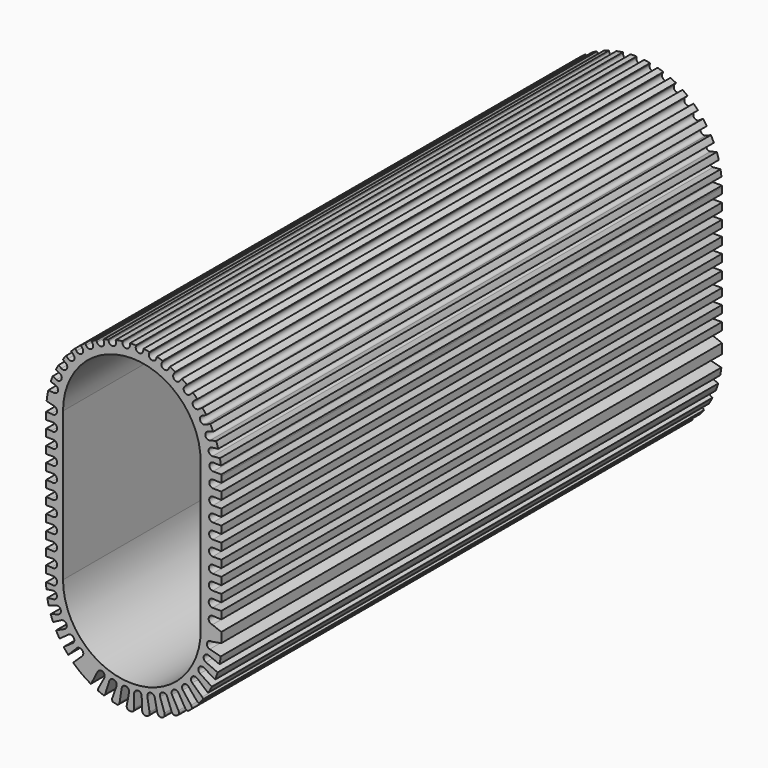
from build123d import *

# Parameters (mm, degrees)
F1_DEPTH = 63.5


with BuildPart() as f1:
    # F0 (on Front) → F1 (new body, symmetric)
    with BuildSketch(Plane.XZ):
        with BuildLine():
            Line((-0.255122, 44.271015), (-0.255122, 43.875967))
            ThreePointArc((-0.255122, 43.875967), (-1.017122, 43.113967), (-1.779122, 43.875967))
            Line((-1.779122, 43.875967), (-1.806015, 44.136175))
            ThreePointArc((-1.806015, 44.136175), (-2.475936, 44.035221), (-3.141524, 43.908818))
            Line((-3.141524, 43.908818), (-3.073498, 43.523019))
            ThreePointArc((-3.073498, 43.523019), (-3.691601, 42.640276), (-4.574345, 43.258379))
            Line((-4.574345, 43.258379), (-4.614646, 43.533464))
            ThreePointArc((-4.614646, 43.533464), (-5.132096, 43.369123), (-5.644287, 43.189059))
            Line((-5.644287, 43.189059), (-5.509448, 42.796288))
            ThreePointArc((-5.509448, 42.796288), (-5.98274, 41.828154), (-6.950874, 42.301446))
            Line((-6.950874, 42.301446), (-7.044836, 42.603456))
            ThreePointArc((-7.044836, 42.603456), (-7.535961, 42.363725), (-8.019486, 42.109014))
            Line((-8.019486, 42.109014), (-7.802731, 41.699543))
            ThreePointArc((-7.802731, 41.699543), (-8.119692, 40.66958), (-9.149655, 40.986541))
            Line((-9.149655, 40.986541), (-9.317015, 41.326221))
            ThreePointArc((-9.317015, 41.326221), (-9.772593, 41.013874), (-10.218248, 40.687526))
            Line((-10.218248, 40.687526), (-9.897534, 40.259476))
            ThreePointArc((-9.897534, 40.259476), (-10.050452, 39.19275), (-11.117178, 39.345667))
            Line((-11.117178, 39.345667), (-11.384391, 39.724791))
            ThreePointArc((-11.384391, 39.724791), (-11.794998, 39.343467), (-12.193385, 38.949393))
            Line((-12.193385, 38.949393), (-11.742878, 38.511134))
            ThreePointArc((-11.742878, 38.511134), (-11.72803, 37.433605), (-12.805558, 37.418757))
            Line((-12.805558, 37.418757), (-13.202383, 37.827902))
            ThreePointArc((-13.202383, 37.827902), (-13.558403, 37.382356), (-13.899951, 36.925621))
            Line((-13.899951, 36.925621), (-13.293852, 36.497065))
            ThreePointArc((-13.293852, 36.497065), (-13.1116, 35.434957), (-14.173707, 35.252705))
            Line((-14.173707, 35.252705), (-14.729177, 35.670195))
            ThreePointArc((-14.729177, 35.670195), (-15.02091, 35.166577), (-15.296003, 34.653681))
            Line((-15.296003, 34.653681), (-14.512711, 34.266285))
            ThreePointArc((-14.512711, 34.266285), (-14.16749, 33.245447), (-15.188328, 32.900226))
            Line((-15.188328, 32.900226), (-15.926482, 33.292397))
            ThreePointArc((-15.926482, 33.292397), (-16.144372, 32.738524), (-16.343601, 32.177669))
            Line((-16.343601, 32.177669), (-15.369792, 31.873085))
            ThreePointArc((-15.369792, 31.873085), (-14.870004, 30.91836), (-15.824729, 30.418572))
            Line((-15.824729, 30.418572), (-16.817992, 30.499692))
            ThreePointArc((-16.817992, 30.499692), (-17.021492, 29.481508), (-17.165209, 28.453181))
            Line((-17.165209, 28.453181), (-15.924497, 28.104929))
            ThreePointArc((-15.924497, 28.104929), (-15.050969, 27.143538), (-16.175584, 26.49349))
            Line((-16.175584, 26.49349), (-17.271998, 26.515287))
            ThreePointArc((-17.271998, 26.515287), (-17.272, 26.511343), (-17.272, 26.507399))
            Line((-17.272, 26.507399), (-17.272, 25.044551))
            Line((-17.272, 25.044551), (-15.924497, 25.056929))
            ThreePointArc((-15.924497, 25.056929), (-15.050969, 24.095538), (-16.175584, 23.44549))
            Line((-16.175584, 23.44549), (-17.272, 23.467287))
            Line((-17.272, 23.467287), (-17.272, 21.996551))
            Line((-17.272, 21.996551), (-15.924497, 22.008929))
            ThreePointArc((-15.924497, 22.008929), (-15.050969, 21.047538), (-16.175584, 20.39749))
            Line((-16.175584, 20.39749), (-17.272, 20.419287))
            Line((-17.272, 20.419287), (-17.272, 18.948551))
            Line((-17.272, 18.948551), (-15.924497, 18.960929))
            ThreePointArc((-15.924497, 18.960929), (-15.050969, 17.999538), (-16.175584, 17.34949))
            Line((-16.175584, 17.34949), (-17.272, 17.371287))
            Line((-17.272, 17.371287), (-17.272, 15.900551))
            Line((-17.272, 15.900551), (-15.924497, 15.912929))
            ThreePointArc((-15.924497, 15.912929), (-15.050969, 14.951538), (-16.175584, 14.30149))
            Line((-16.175584, 14.30149), (-17.272, 14.323287))
            Line((-17.272, 14.323287), (-17.272, 12.852551))
            Line((-17.272, 12.852551), (-15.924497, 12.864929))
            ThreePointArc((-15.924497, 12.864929), (-15.050969, 11.903538), (-16.175584, 11.25349))
            Line((-16.175584, 11.25349), (-17.272, 11.275287))
            Line((-17.272, 11.275287), (-17.272, 9.804551))
            Line((-17.272, 9.804551), (-15.924497, 9.816929))
            ThreePointArc((-15.924497, 9.816929), (-15.050969, 8.855538), (-16.175584, 8.20549))
            Line((-16.175584, 8.20549), (-17.272, 8.227287))
            Line((-17.272, 8.227287), (-17.272, 6.756551))
            Line((-17.272, 6.756551), (-15.924497, 6.768929))
            ThreePointArc((-15.924497, 6.768929), (-15.050969, 5.807538), (-16.175584, 5.15749))
            Line((-16.175584, 5.15749), (-17.272, 5.179287))
            Line((-17.272, 5.179287), (-17.272, 3.708551))
            Line((-17.272, 3.708551), (-15.924497, 3.720929))
            ThreePointArc((-15.924497, 3.720929), (-15.050969, 2.759538), (-16.175584, 2.10949))
            Line((-16.175584, 2.10949), (-17.272, 2.131287))
            Line((-17.272, 2.131287), (-17.272, 0.660551))
            Line((-17.272, 0.660551), (-15.924497, 0.672929))
            ThreePointArc((-15.924497, 0.672929), (-15.050969, -0.288462), (-16.175584, -0.93851))
            Line((-16.175584, -0.93851), (-17.272, -0.916713))
            Line((-17.272, -0.916713), (-17.272, -2.387449))
            Line((-17.272, -2.387449), (-15.924497, -2.375071))
            ThreePointArc((-15.924497, -2.375071), (-15.050969, -3.336462), (-16.175584, -3.98651))
            Line((-16.175584, -3.98651), (-17.269431, -3.964764))
            ThreePointArc((-17.269431, -3.964764), (-17.248031, -4.585448), (-17.204966, -5.205007))
            Line((-17.204966, -5.205007), (-15.961419, -4.99855))
            ThreePointArc((-15.961419, -4.99855), (-15.084391, -5.624736), (-15.710577, -6.501764))
            Line((-15.710577, -6.501764), (-17.013993, -6.680505))
            ThreePointArc((-17.013993, -6.680505), (-16.893468, -7.311824), (-16.750203, -7.938374))
            Line((-16.750203, -7.938374), (-15.257094, -7.441073))
            ThreePointArc((-15.257094, -7.441073), (-14.293349, -7.923238), (-14.775514, -8.886983))
            Line((-14.775514, -8.886983), (-16.33555, -9.356673))
            ThreePointArc((-16.33555, -9.356673), (-16.108441, -9.98885), (-15.857615, -10.611997))
            Line((-15.857615, -10.611997), (-14.181461, -9.744333))
            ThreePointArc((-14.181461, -9.744333), (-13.154454, -10.070743), (-13.480863, -11.09775))
            Line((-13.480863, -11.09775), (-15.24691, -11.903359))
            ThreePointArc((-15.24691, -11.903359), (-14.900228, -12.534675), (-14.528263, -13.151432))
            Line((-14.528263, -13.151432), (-12.760698, -11.852277))
            ThreePointArc((-12.760698, -11.852277), (-11.695422, -12.014986), (-11.858131, -13.080263))
            Line((-11.858131, -13.080263), (-13.699283, -14.352786))
            ThreePointArc((-13.699283, -14.352786), (-13.250124, -14.924967), (-12.777938, -15.478296))
            Line((-12.777938, -15.478296), (-11.02938, -13.713602))
            ThreePointArc((-11.02938, -13.713602), (-9.951761, -13.708653), (-9.946811, -14.786272))
            Line((-9.946811, -14.786272), (-11.770089, -16.522429))
            ThreePointArc((-11.770089, -16.522429), (-11.214837, -17.030536), (-10.638578, -17.514688))
            ThreePointArc((-10.638578, -17.514688), (-10.055188, -17.964542), (-9.453663, -18.389843))
            ThreePointArc((-9.453663, -18.389843), (-8.831134, -18.792271), (-8.192372, -19.168401))
            ThreePointArc((-8.192372, -19.168401), (-8.113377, -19.076102), (-8.050055, -18.972422))
            Line((-8.050055, -18.972422), (-6.810154, -16.522311))
            ThreePointArc((-6.810154, -16.522311), (-5.786188, -16.186482), (-5.450359, -17.210448))
            Line((-5.450359, -17.210448), (-6.718956, -19.546196))
            ThreePointArc((-6.718956, -19.546196), (-6.753341, -19.71893), (-6.747151, -19.894945))
            ThreePointArc((-6.747151, -19.894945), (-6.143537, -20.151482), (-5.530873, -20.385583))
            ThreePointArc((-5.530873, -20.385583), (-5.371472, -20.220027), (-5.268683, -20.014475))
            Line((-5.268683, -20.014475), (-4.424928, -17.401339))
            ThreePointArc((-4.424928, -17.401339), (-3.465652, -16.910342), (-2.974655, -17.869618))
            Line((-2.974655, -17.869618), (-3.864543, -20.374245))
            ThreePointArc((-3.864543, -20.374245), (-3.85441, -20.663628), (-3.737046, -20.928337))
            ThreePointArc((-3.737046, -20.928337), (-3.230598, -21.045032), (-2.720955, -21.146876))
            ThreePointArc((-2.720955, -21.146876), (-2.480414, -20.919344), (-2.359088, -20.611268))
            Line((-2.359088, -20.611268), (-1.932014, -17.898704))
            ThreePointArc((-1.932014, -17.898704), (-1.060774, -17.264488), (-0.426558, -18.135727))
            Line((-0.426558, -18.135727), (-0.91608, -20.748279))
            ThreePointArc((-0.91608, -20.748279), (-0.811889, -21.132898), (-0.527807, -21.412336))
            ThreePointArc((-0.527807, -21.412336), (-0.180466, -21.429199), (0.167139, -21.439265))
            ThreePointArc((0.167139, -21.439265), (0.488342, -21.158081), (0.60792, -20.748279))
            Line((0.60792, -20.748279), (0.60792, -18.0023))
            ThreePointArc((0.60792, -18.0023), (1.36992, -17.2403), (2.13192, -18.0023))
            Line((2.13192, -18.0023), (2.228574, -20.639522))
            ThreePointArc((2.228574, -20.639522), (2.473282, -21.083045), (2.941996, -21.275144))
            ThreePointArc((2.941996, -21.275144), (3.088762, -21.254238), (3.235349, -21.232108))
            ThreePointArc((3.235349, -21.232108), (3.636871, -20.900628), (3.731789, -20.38868))
            Line((3.731789, -20.38868), (3.279816, -17.680153))
            ThreePointArc((3.279816, -17.680153), (3.906002, -16.803125), (4.78303, -17.429311))
            Line((4.78303, -17.429311), (5.312439, -20.014656))
            ThreePointArc((5.312439, -20.014656), (5.648283, -20.424898), (6.170443, -20.516765))
            ThreePointArc((6.170443, -20.516765), (6.277794, -20.480318), (6.38491, -20.443186))
            ThreePointArc((6.38491, -20.443186), (6.740755, -20.049974), (6.753864, -19.519814))
            Line((6.753864, -19.519814), (5.862246, -16.92262))
            ThreePointArc((5.862246, -16.92262), (6.335538, -15.954487), (7.303672, -16.427778))
            Line((7.303672, -16.427778), (8.251394, -18.890725))
            ThreePointArc((8.251394, -18.890725), (8.56324, -19.200553), (8.994336, -19.286569))
            ThreePointArc((8.994336, -19.286569), (9.265693, -19.136098), (9.534383, -18.980915))
            ThreePointArc((9.534383, -18.980915), (9.681677, -18.581487), (9.591712, -18.165381))
            Line((9.591712, -18.165381), (8.28477, -15.750365))
            ThreePointArc((8.28477, -15.750365), (8.592258, -14.717534), (9.625088, -15.025021))
            Line((9.625088, -15.025021), (10.965272, -17.298387))
            ThreePointArc((10.965272, -17.298387), (11.227819, -17.512905), (11.557432, -17.592302))
            ThreePointArc((11.557432, -17.592302), (11.942516, -17.277975), (12.318662, -16.953006))
            ThreePointArc((12.318662, -16.953006), (12.304934, -16.641935), (12.167922, -16.362327))
            Line((12.167922, -16.362327), (10.481308, -14.195364))
            ThreePointArc((10.481308, -14.195364), (10.614603, -13.126008), (11.683958, -13.259303))
            Line((11.683958, -13.259303), (13.380047, -15.281076))
            ThreePointArc((13.380047, -15.281076), (13.573047, -15.410569), (13.796104, -15.47586))
            ThreePointArc((13.796104, -15.47586), (14.216626, -14.985164), (14.619039, -14.479509))
            ThreePointArc((14.619039, -14.479509), (14.535919, -14.306546), (14.412224, -14.159833))
            Line((14.412224, -14.159833), (12.391942, -12.300032))
            ThreePointArc((12.391942, -12.300032), (12.347409, -11.223322), (13.424119, -11.178789))
            Line((13.424119, -11.178789), (15.429849, -12.89382))
            ThreePointArc((15.429849, -12.89382), (15.533438, -12.950564), (15.644553, -12.990618))
            ThreePointArc((15.644553, -12.990618), (16.019545, -12.352778), (16.367676, -11.699888))
            ThreePointArc((16.367676, -11.699888), (16.317322, -11.656661), (16.263398, -11.617978))
            Line((16.263398, -11.617978), (13.964556, -10.11607))
            ThreePointArc((13.964556, -10.11607), (13.74341, -9.061375), (14.798105, -8.840229))
            Line((14.798105, -8.840229), (17.045078, -10.193494))
            ThreePointArc((17.045078, -10.193494), (17.31025, -9.477411), (17.54443, -8.750602))
            Line((17.54443, -8.750602), (15.156254, -7.703051))
            ThreePointArc((15.156254, -7.703051), (14.764527, -6.69914), (15.768438, -6.307413))
            Line((15.768438, -6.307413), (17.939353, -7.166293))
            ThreePointArc((17.939353, -7.166293), (18.070948, -6.432238), (18.171645, -5.69331))
            Line((18.171645, -5.69331), (15.934529, -5.126796))
            ThreePointArc((15.934529, -5.126796), (15.382906, -4.201053), (16.308649, -3.64943))
            Line((16.308649, -3.64943), (18.288, -3.285634))
            Line((18.288, -3.285634), (18.288, -1.283039))
            Line((18.288, -1.283039), (16.48606, -0.578059))
            ThreePointArc((16.48606, -0.578059), (15.720446, 0.262012), (16.560516, 1.027626))
            Line((16.560516, 1.027626), (18.288, 0.948037))
            Line((18.288, 0.948037), (18.288, 2.469899))
            Line((18.288, 2.469899), (16.502159, 2.469899))
            ThreePointArc((16.502159, 2.469899), (15.736545, 3.309969), (16.576615, 4.075583))
            Line((16.576615, 4.075583), (18.288, 3.996736))
            Line((18.288, 3.996736), (18.288, 5.517856))
            Line((18.288, 5.517856), (16.518258, 5.517856))
            ThreePointArc((16.518258, 5.517856), (15.752643, 6.357927), (16.592714, 7.123541))
            Line((16.592714, 7.123541), (18.288, 7.045435))
            Line((18.288, 7.045435), (18.288, 8.565814))
            Line((18.288, 8.565814), (16.534357, 8.565814))
            ThreePointArc((16.534357, 8.565814), (15.768742, 9.405884), (16.608813, 10.171498))
            Line((16.608813, 10.171498), (18.288, 10.094134))
            Line((18.288, 10.094134), (18.288, 11.613771))
            Line((18.288, 11.613771), (16.550455, 11.613771))
            ThreePointArc((16.550455, 11.613771), (15.784841, 12.453842), (16.624911, 13.219456))
            Line((16.624911, 13.219456), (18.288, 13.142833))
            Line((18.288, 13.142833), (18.288, 14.661729))
            Line((18.288, 14.661729), (16.566554, 14.661729))
            ThreePointArc((16.566554, 14.661729), (15.80094, 15.501799), (16.64101, 16.267413))
            Line((16.64101, 16.267413), (18.288, 16.191533))
            Line((18.288, 16.191533), (18.288, 17.709686))
            Line((18.288, 17.709686), (16.582653, 17.709686))
            ThreePointArc((16.582653, 17.709686), (15.817039, 18.549756), (16.657109, 19.315371))
            Line((16.657109, 19.315371), (18.288, 19.240232))
            Line((18.288, 19.240232), (18.288, 20.757644))
            Line((18.288, 20.757644), (16.598752, 20.757644))
            ThreePointArc((16.598752, 20.757644), (15.833137, 21.597714), (16.673208, 22.363328))
            Line((16.673208, 22.363328), (18.288, 22.288931))
            Line((18.288, 22.288931), (18.288, 23.805601))
            Line((18.288, 23.805601), (16.61485, 23.805601))
            ThreePointArc((16.61485, 23.805601), (15.849236, 24.645671), (16.689306, 25.411286))
            Line((16.689306, 25.411286), (18.288, 25.33763))
            Line((18.288, 25.33763), (18.288, 26.507399))
            ThreePointArc((18.288, 26.507399), (18.287157, 26.680487), (18.28463, 26.853559))
            Line((18.28463, 26.853559), (16.630949, 26.853559))
            ThreePointArc((16.630949, 26.853559), (15.865335, 27.693629), (16.705405, 28.459243))
            Line((16.705405, 28.459243), (18.187951, 28.390939))
            ThreePointArc((18.187951, 28.390939), (18.108183, 29.029691), (18.005345, 29.665136))
            Line((18.005345, 29.665136), (16.530546, 29.542931))
            ThreePointArc((16.530546, 29.542931), (15.708223, 30.239403), (16.404695, 31.061726))
            Line((16.404695, 31.061726), (17.654413, 31.211538))
            ThreePointArc((17.654413, 31.211538), (17.463605, 31.858648), (17.248384, 32.498054))
            Line((17.248384, 32.498054), (15.988856, 32.179098))
            ThreePointArc((15.988856, 32.179098), (15.063113, 32.730721), (15.614736, 33.656464))
            Line((15.614736, 33.656464), (16.650878, 33.959639))
            ThreePointArc((16.650878, 33.959639), (16.361776, 34.556386), (16.050623, 35.141938))
            Line((16.050623, 35.141938), (15.020655, 34.690152))
            ThreePointArc((15.020655, 34.690152), (14.016744, 35.081879), (14.408471, 36.085791))
            Line((14.408471, 36.085791), (15.227077, 36.481223))
            ThreePointArc((15.227077, 36.481223), (14.851486, 37.014198), (14.456605, 37.533042))
            Line((14.456605, 37.533042), (13.652353, 37.007598))
            ThreePointArc((13.652353, 37.007598), (12.597658, 37.228744), (12.818804, 38.28344))
            Line((12.818804, 38.28344), (13.432612, 38.717346))
            ThreePointArc((13.432612, 38.717346), (12.98356, 39.175816), (12.518256, 39.617782))
            Line((12.518256, 39.617782), (11.921274, 39.068222))
            ThreePointArc((11.921274, 39.068222), (10.844564, 39.112755), (10.889097, 40.189465))
            Line((10.889097, 40.189465), (11.323368, 40.619671))
            ThreePointArc((11.323368, 40.619671), (10.814538, 40.995452), (10.292664, 41.352895))
            Line((10.292664, 41.352895), (9.874637, 40.815815))
            ThreePointArc((9.874637, 40.815815), (8.805282, 40.68252), (8.671987, 41.751875))
            Line((8.671987, 41.751875), (8.959356, 42.150384))
            ThreePointArc((8.959356, 42.150384), (8.404643, 42.437604), (7.840183, 42.705161))
            Line((7.840183, 42.705161), (7.568269, 42.202708))
            ThreePointArc((7.568269, 42.202708), (6.535438, 41.895221), (6.227951, 42.928052))
            Line((6.227951, 42.928052), (6.402921, 43.281734))
            ThreePointArc((6.402921, 43.281734), (5.816132, 43.476551), (5.222925, 43.650849))
            Line((5.222925, 43.650849), (5.065082, 43.19107))
            ThreePointArc((5.065082, 43.19107), (4.096949, 42.717778), (3.623657, 43.685912))
            Line((3.623657, 43.685912), (3.717366, 43.995348))
            ThreePointArc((3.717366, 43.995348), (3.112047, 44.095672), (2.503627, 44.17505))
            Line((2.503627, 44.17505), (2.433356, 43.753941))
            ThreePointArc((2.433356, 43.753941), (1.556328, 43.127755), (0.930142, 44.004783))
            Line((0.930142, 44.004783), (0.965957, 44.2815))
            ThreePointArc((0.965957, 44.2815), (0.355327, 44.286744), (-0.255122, 44.271015))
        make_face()
        with BuildLine():
            Line((-13.833672, -2.415712), (-13.833672, 27.75422))
            ThreePointArc((-13.833672, 27.75422), (0.136328, 41.72422), (14.106328, 27.75422))
            Line((14.106328, 27.75422), (14.106328, -2.415712))
            ThreePointArc((14.106328, -2.415712), (0.136328, -16.385712), (-13.833672, -2.415712))
        make_face(mode=Mode.SUBTRACT)
    extrude(amount=F1_DEPTH, both=True)


solid = f1.part
